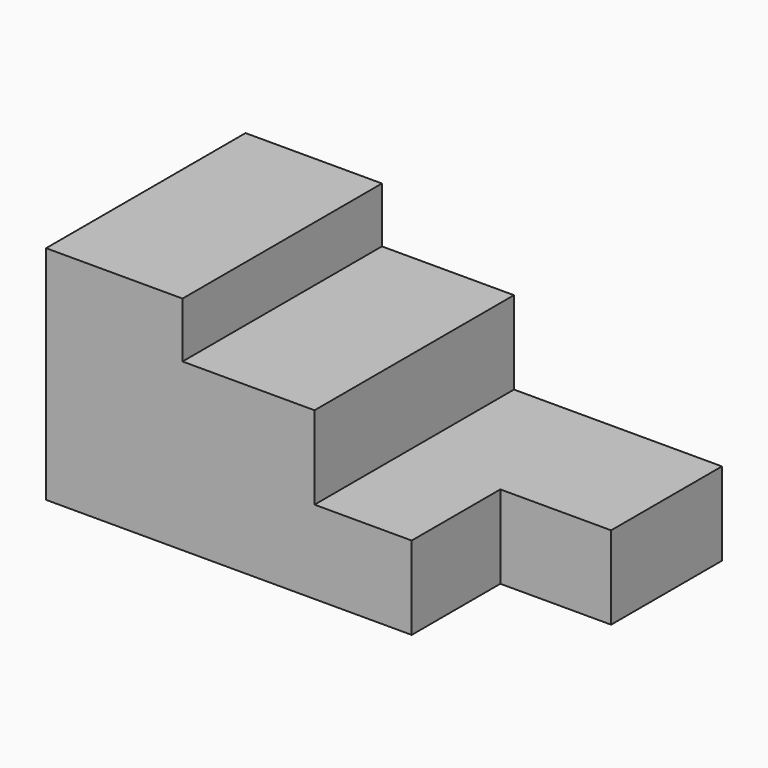
from build123d import *

# Parameters (mm, degrees)
F1_DEPTH = 22.5
F2_W     = 10
F2_H     = 10
F3_DEPTH = 25


with BuildPart() as f1:
    # F0 (on Front) → F1 (new body)
    with BuildSketch(Plane.XZ):
        Polygon((0, 20), (0, 0), (43, 0), (43, 7.5), (24.230773, 7.5), (24.230773, 15), (12.313999, 15), (12.313999, 20), align=None)
    extrude(amount=-F1_DEPTH)

    # F2 (on face) → F3 (cut)
    with BuildSketch(Plane.XY.offset(7.5)):
        with Locations((38, 5)):
            Rectangle(F2_W, F2_H)
    extrude(amount=-F3_DEPTH, mode=Mode.SUBTRACT)


solid = f1.part
